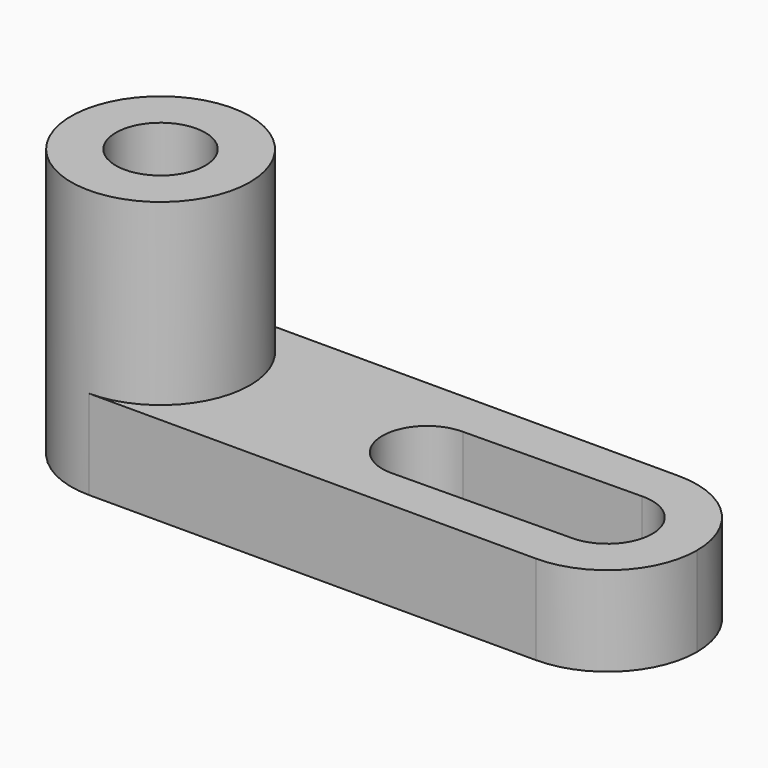
from build123d import *

# Parameters (mm, degrees)
F1_DEPTH = 12.7
F2_R     = 12.7
F3_DEPTH = 25.4
F4_R     = 6.35
F5_DEPTH = 38.1
F7_DEPTH = 12.7


with BuildPart() as f1:
    # F0 (on Top) → F1 (new body)
    with BuildSketch(Plane.XY):
        with BuildLine():
            ThreePointArc((0, 25.4), (-12.7, 12.7), (0, 0))
            Line((0, 0), (0, 25.4))
        make_face()
        with BuildLine():
            ThreePointArc((12.7, 12.7), (8.9802561211, 3.7197438789), (0, 0))
            Line((0, 0), (63.5, 0))
            ThreePointArc((63.5, 0), (50.8, 12.7), (63.5, 25.4))
            Line((63.5, 25.4), (0, 25.4))
            ThreePointArc((0, 25.4), (8.9802561211, 21.6802561211), (12.7, 12.7))
        make_face()
        with BuildLine():
            Line((0, 25.4), (0, 0))
            ThreePointArc((0, 0), (8.9802561211, 3.7197438789), (12.7, 12.7))
            ThreePointArc((12.7, 12.7), (8.9802561211, 21.6802561211), (0, 25.4))
        make_face()
        with BuildLine():
            ThreePointArc((63.5, 25.4), (50.8, 12.7), (63.5, 0))
            Line((63.5, 0), (63.5, 25.4))
        make_face()
        with BuildLine():
            Line((63.5, 25.4), (63.5, 0))
            ThreePointArc((63.5, 0), (72.4802561211, 3.7197438789), (76.2, 12.7))
            ThreePointArc((76.2, 12.7), (72.4802561211, 21.6802561211), (63.5, 25.4))
        make_face()
    extrude(amount=F1_DEPTH)

    # F2 (on face) → F3 (join)
    with BuildSketch(Plane.XY.offset(12.7)):
        with Locations((0, 12.7)):
            Circle(F2_R)
    extrude(amount=F3_DEPTH)

    # F4 (on face) → F5 (cut)
    with BuildSketch(Plane.XY.offset(38.1)):
        with Locations((0, 12.7)):
            Circle(F4_R)
    extrude(amount=-F5_DEPTH, mode=Mode.SUBTRACT)

    # F6 (on face) → F7 (cut)
    with BuildSketch(Plane.XY.offset(12.7)):
        with BuildLine():
            ThreePointArc((38.257622641, 6.0399938281), (42.6467607914, 7.9533489918), (44.4519152548, 12.3880845024))
            ThreePointArc((44.4519152548, 12.3880845024), (42.5920433154, 16.878212563), (38.1019152548, 18.7380845024))
            Line((38.1019152548, 18.7380845024), (38.1019152548, 6.0380845024))
            Line((38.1019152548, 6.0380845024), (38.257622641, 6.0399938281))
        make_face()
        with BuildLine():
            ThreePointArc((38.1019152548, 18.7380845024), (42.5920433154, 16.878212563), (44.4519152548, 12.3880845024))
            ThreePointArc((44.4519152548, 12.3880845024), (42.6467607914, 7.9533489918), (38.257622641, 6.0399938281))
            Line((38.257622641, 6.0399938281), (63.5, 6.3495226148))
            Line((63.5, 6.3495226148), (63.4999941462, 6.35))
            ThreePointArc((63.4999941462, 6.35), (57.1504773494, 12.622140454), (63.3442867618, 19.0480905308))
            Line((63.3442867618, 19.0480905308), (38.1019152548, 18.7380845024))
        make_face()
        with BuildLine():
            Line((38.1019152548, 6.0380845024), (38.1019152548, 18.7380845024))
            ThreePointArc((38.1019152548, 18.7380845024), (31.7519152548, 12.3880845024), (38.1019152548, 6.0380845024))
        make_face()
        with BuildLine():
            ThreePointArc((38.1019152548, 6.0380845024), (38.1797748009, 6.0385618518), (38.257622641, 6.0399938281))
            Line((38.257622641, 6.0399938281), (38.1019152548, 6.0380845024))
        make_face()
        with BuildLine():
            Line((63.4999941462, 6.35), (63.3442867618, 19.0480905308))
            ThreePointArc((63.3442867618, 19.0480905308), (57.1504773494, 12.622140454), (63.4999941462, 6.35))
        make_face()
        with BuildLine():
            ThreePointArc((69.85, 12.7), (67.9347334157, 17.2448475807), (63.3442867618, 19.0480905308))
            Line((63.3442867618, 19.0480905308), (63.4999941462, 6.35))
            ThreePointArc((63.4999941462, 6.35), (67.9901259909, 8.2098698698), (69.85, 12.7))
        make_face()
    extrude(amount=-F7_DEPTH, mode=Mode.SUBTRACT)


solid = f1.part
